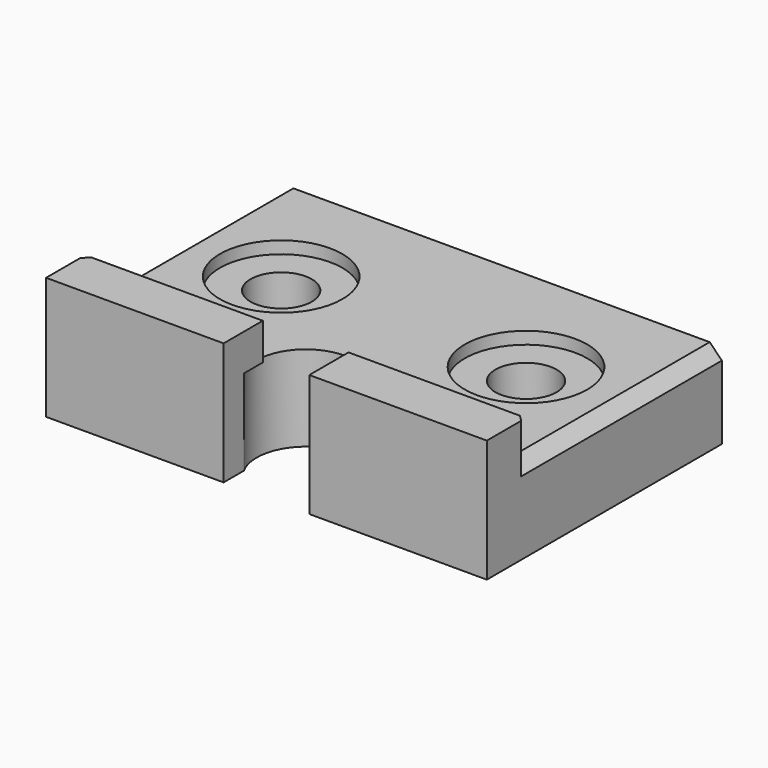
from build123d import *

# Parameters (mm, degrees)
BOX010_W          = 7
BOX010_H          = 10
BOX010_DEPTH      = 10
CYLINDER007_R     = 4
CYLINDER007_DEPTH = 7
CYLINDER012_R     = 2.5
CYLINDER012_DEPTH = 10
CYLINDER010_R     = 5
CYLINDER010_DEPTH = 1
CYLINDER009_R     = 5
CYLINDER009_DEPTH = 1
CYLINDER011_R     = 2.5
CYLINDER011_DEPTH = 10
BOX009_W          = 36
BOX009_H          = 4
BOX009_DEPTH      = 10
CHAMFER003_SIZE   = 0.5
BOX008_W          = 36
BOX008_H          = 24
BOX008_DEPTH      = 7
CHAMFER004_SIZE   = 1


with BuildPart() as cube010:
    # Box010 → Box010 (new body)
    with BuildSketch(Plane(origin=(-3.5, -10, 0), x_dir=(1, 0, 0), z_dir=(0, 0, 1))):
        with Locations((3.5, 5)):
            Rectangle(BOX010_W, BOX010_H)
    extrude(amount=BOX010_DEPTH)


with BuildPart() as cylinder007:
    # Cylinder007 → Cylinder007 (new body)
    with BuildSketch(Plane.XY):
        Circle(CYLINDER007_R)
    extrude(amount=CYLINDER007_DEPTH)


with BuildPart() as cylinder012:
    # Cylinder012 → Cylinder012 (new body)
    with BuildSketch(Plane(origin=(-10, 10, 0), x_dir=(1, 0, 0), z_dir=(0, 0, 1))):
        Circle(CYLINDER012_R)
    extrude(amount=CYLINDER012_DEPTH)


with BuildPart() as fusion003003003:
    # Cylinder010 → Cylinder010 (new body)
    with BuildSketch(Plane(origin=(-10, 10, 6), x_dir=(1, 0, 0), z_dir=(0, 0, 1))):
        Circle(CYLINDER010_R)
    extrude(amount=CYLINDER010_DEPTH)

    # Fusion003003003: union Cylinder012
    add(cylinder012.part)


with BuildPart() as cylinder009:
    # Cylinder009 → Cylinder009 (new body)
    with BuildSketch(Plane(origin=(10, 10, 6), x_dir=(1, 0, 0), z_dir=(0, 0, 1))):
        Circle(CYLINDER009_R)
    extrude(amount=CYLINDER009_DEPTH)


with BuildPart() as fusion003003002:
    # Cylinder011 → Cylinder011 (new body)
    with BuildSketch(Plane(origin=(10, 10, 0), x_dir=(1, 0, 0), z_dir=(0, 0, 1))):
        Circle(CYLINDER011_R)
    extrude(amount=CYLINDER011_DEPTH)

    # Fusion003003002: union Cylinder009
    add(cylinder009.part)


with BuildPart() as chamfer003:
    # Box009 → Box009 (new body)
    with BuildSketch(Plane(origin=(-18, -4, 0), x_dir=(1, 0, 0), z_dir=(0, 0, 1))):
        with Locations((18, 2)):
            Rectangle(BOX009_W, BOX009_H)
    extrude(amount=BOX009_DEPTH)

    # Chamfer003
    chamfer003_edges = [chamfer003.edges().sort_by_distance(p)[0] for p in [
        (-18, 0, 5),
        (18, 0, 5),
    ]]
    chamfer(chamfer003_edges, length=CHAMFER003_SIZE)


with BuildPart() as cut017:
    # Box008 → Box008 (new body)
    with BuildSketch(Plane(origin=(-18, -4, 0), x_dir=(1, 0, 0), z_dir=(0, 0, 1))):
        with Locations((18, 12)):
            Rectangle(BOX008_W, BOX008_H)
    extrude(amount=BOX008_DEPTH)

    # Chamfer004
    chamfer004_edges = [cut017.edges().sort_by_distance(p)[0] for p in [
        (-18, 8, 7),
        (18, 8, 7),
    ]]
    chamfer(chamfer004_edges, length=CHAMFER004_SIZE)

    # Fusion003003004: union Chamfer003
    add(chamfer003.part)

    # Cut014: cut Fusion003003002
    add(fusion003003002.part, mode=Mode.SUBTRACT)

    # Cut015: cut Fusion003003003
    add(fusion003003003.part, mode=Mode.SUBTRACT)

    # Cut016: cut Cylinder007
    add(cylinder007.part, mode=Mode.SUBTRACT)

    # Cut017: cut Cube010
    add(cube010.part, mode=Mode.SUBTRACT)


solid = cut017.part
